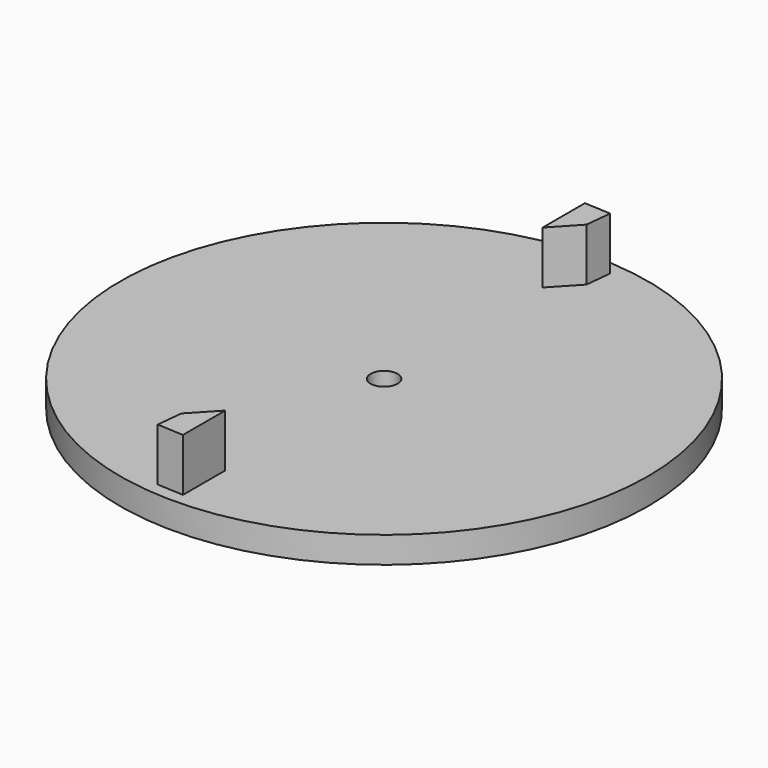
from build123d import *

# Parameters (mm, degrees)
F0_R     = 50
F0_R_2   = 2.55
F1_DEPTH = 5
F3_DEPTH = 10


with BuildPart() as f1:
    # F0 (on Top) → F1 (new body)
    with BuildSketch(Plane.XY):
        Circle(F0_R)
        Circle(F0_R_2, mode=Mode.SUBTRACT)
    extrude(amount=F1_DEPTH)

    # F2 (on face) → F3 (join)
    with BuildSketch(Plane.XY.offset(5)):
        Polygon((5.046888, 47.231122), (0.046888, 47.495013), (0.046888, 37.495013), (4.520572, 42.2589), align=None)
        Polygon((-5, -47.361098), (0, -47.624989), (0, -37.624989), (-4.473684, -42.388876), align=None)
    extrude(amount=F3_DEPTH)


solid = f1.part
